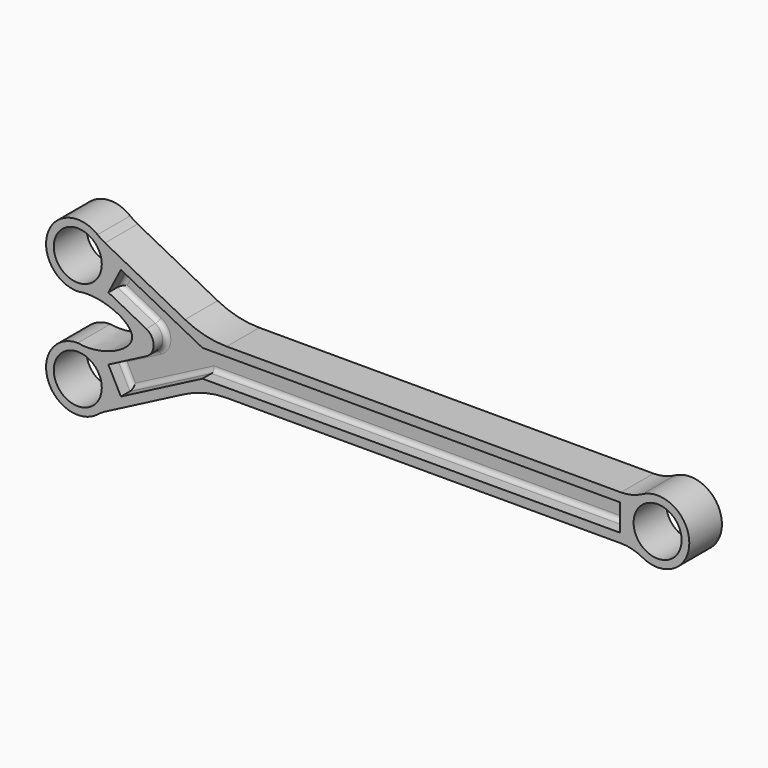
from build123d import *

# Parameters (mm, degrees)
F0_R     = 26.5
F1_DEPTH = 45
F2_ANGLE = 12.5
F4_DEPTH = 17.5
F6_DEPTH = 17.5
F7_R     = 5
F8_R     = 5


with BuildPart() as f1:
    # F0 (on Front) → F1 (new body)
    with BuildSketch(Plane.XZ):
        with BuildLine():
            ThreePointArc((-40.478678, -24.757054), (-28.191847, -26.283521), (-16.656806, -30.782313))
            ThreePointArc((-16.656806, -30.782313), (35, 0), (-16.656806, 30.782313))
            ThreePointArc((-16.656806, 30.782313), (-28.191847, 26.283521), (-40.478678, 24.757054))
            Line((-40.478678, 24.757054), (-475.64768, 24.987125))
            ThreePointArc((-475.64768, 24.987125), (-499.307017, 27.839125), (-521.619742, 36.20814))
            Line((-521.619742, 36.20814), (-609.903107, 81.976138))
            ThreePointArc((-609.903107, 81.976138), (-614.148891, 84.449185), (-618.13144, 87.327022))
            ThreePointArc((-618.13144, 87.327022), (-673.026094, 71.587801), (-640, 25))
            add(Edge.make_bspline(
                [(-640, -25), (-615, -30), (-545, 0), (-615, 30), (-640, 25)],
                knots=[0, 0, 0, 0, 65, 130, 130, 130, 130], degree=3))
            ThreePointArc((-640, -25), (-673.026094, -71.587801), (-618.13144, -87.327022))
            ThreePointArc((-618.13144, -87.327022), (-614.148891, -84.449185), (-609.903107, -81.976138))
            Line((-609.903107, -81.976138), (-521.619742, -36.20814))
            ThreePointArc((-521.619742, -36.20814), (-499.307017, -27.839125), (-475.64768, -24.987125))
            Line((-475.64768, -24.987125), (-40.478678, -24.757054))
        make_face()
        with Locations((-640, -60)):
            Circle(F0_R, mode=Mode.SUBTRACT)
        with Locations((-640, 60)):
            Circle(F0_R, mode=Mode.SUBTRACT)
        Circle(F0_R, mode=Mode.SUBTRACT)
    extrude(amount=F1_DEPTH)


with BuildPart() as f2_1:
    # F2: copy of F1
    add(f1.part.rotate(Axis((0, -45, 0), (0, -1, 0)), F2_ANGLE))


with BuildPart() as f4_tool:
    # F3 (on face) → F4 (new body)
    with BuildSketch(Plane.XZ.offset(45)):
        with BuildLine():
            Line((-41.5, -14.757592), (-41.5, 14.757592))
            Line((-41.5, 14.757592), (-502.440519, 15.001289))
            Line((-502.440519, 15.001289), (-592.404261, 61.640431))
            Line((-592.404261, 61.640431), (-606.211741, 35.00674))
            Line((-606.211741, 35.00674), (-564.373406, 13.316846))
            ThreePointArc((-564.373406, 13.316846), (-556.277146, 0), (-564.373406, -13.316846))
            Line((-564.373406, -13.316846), (-606.211741, -35.00674))
            Line((-606.211741, -35.00674), (-592.404261, -61.640431))
            Line((-592.404261, -61.640431), (-502.440519, -15.001289))
            Line((-502.440519, -15.001289), (-41.5, -14.757592))
        make_face()
    extrude(amount=-F4_DEPTH)


with BuildPart() as f1_1:
    add(f1.part)

    # F4: cut by f4_tool
    add(f4_tool.part, mode=Mode.SUBTRACT)


with BuildPart() as f2_1_1:
    add(f2_1.part)

    # F4: cut by f4_tool
    add(f4_tool.part, mode=Mode.SUBTRACT)


with BuildPart() as f6_tool:
    # F5 (on face) → F6 (new body)
    with BuildSketch(Plane(origin=(0, 0, 0), x_dir=(-1, 0, 0), z_dir=(0, 1, 0))):
        with BuildLine():
            Line((502.440519, 15.001289), (41.5, 14.757592))
            Line((41.5, 14.757592), (41.5, -14.757592))
            Line((41.5, -14.757592), (502.440519, -15.001289))
            Line((502.440519, -15.001289), (592.404261, -61.640431))
            Line((592.404261, -61.640431), (606.211741, -35.00674))
            Line((606.211741, -35.00674), (564.373406, -13.316846))
            ThreePointArc((564.373406, -13.316846), (556.277146, 0), (564.373406, 13.316846))
            Line((564.373406, 13.316846), (606.211741, 35.00674))
            Line((606.211741, 35.00674), (592.404261, 61.640431))
            Line((592.404261, 61.640431), (502.440519, 15.001289))
        make_face()
    extrude(amount=-F6_DEPTH)


with BuildPart() as f1_2:
    add(f1_1.part)

    # F6: cut by f6_tool
    add(f6_tool.part, mode=Mode.SUBTRACT)

    # F7
    f7_edges = [f1_2.edges().sort_by_distance(p)[0] for p in [
        (-271.970259, -17.5, 14.879441),
        (-41.5, -17.5, 0),
        (-271.970259, -17.5, -14.879441),
        (-547.42239, -17.5, 38.32086),
        (-547.42239, -17.5, -38.32086),
        (-599.308001, -17.5, -48.323585),
        (-585.292573, -17.5, -24.161793),
        (-599.308001, -17.5, 48.323585),
    ]]
    fillet(f7_edges, radius=F7_R)

    # F8
    f8_edges = [f1_2.edges().sort_by_distance(p)[0] for p in [
        (-599.308001, -27.5, -48.323585),
        (-547.42239, -27.5, -38.32086),
        (-271.970259, -27.5, -14.879441),
        (-585.292573, -27.5, 24.161793),
        (-599.308001, -27.5, 48.323585),
        (-547.42239, -27.5, 38.32086),
        (-271.970259, -27.5, 14.879441),
        (-41.5, -27.5, 0),
    ]]
    fillet(f8_edges, radius=F8_R)


with BuildPart() as f2_1_2:
    add(f2_1_1.part)

    # F6: cut by f6_tool
    add(f6_tool.part, mode=Mode.SUBTRACT)


solid = f1_2.part
